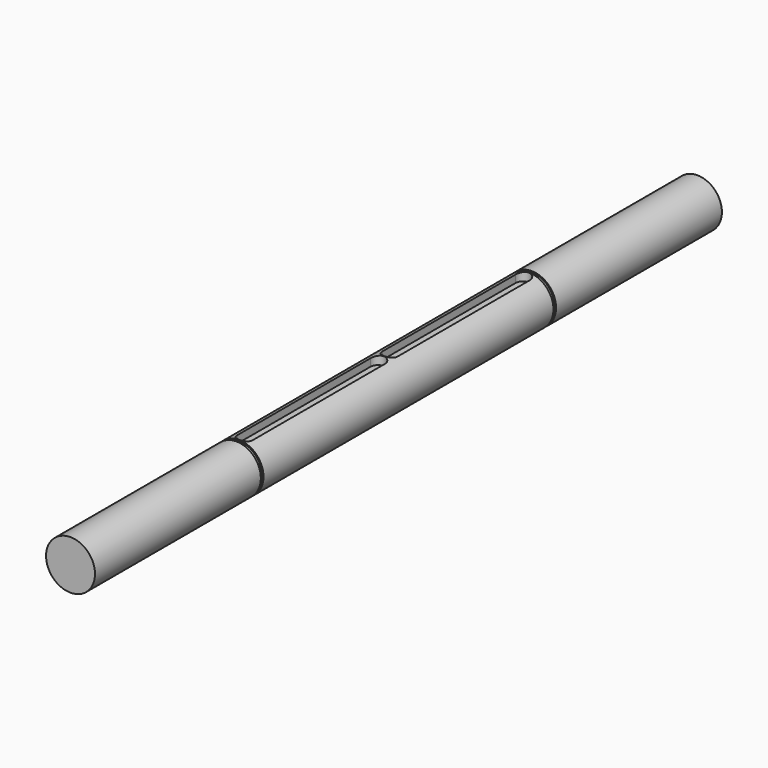
from build123d import *

# Parameters (mm, degrees)
F0_R      = 10
F1_DEPTH  = 320
F4_DEPTH  = 6
F6_R      = 10
F6_R_2    = 9.5
F7_DEPTH  = 1.35
F9_R      = 10
F9_R_2    = 9.5
F10_DEPTH = 1.35


with BuildPart() as f1:
    # F0 (on Front) → F1 (new body)
    with BuildSketch(Plane.XZ):
        Circle(F0_R)
    extrude(amount=F1_DEPTH)

    # F3 (on offset) → F4 (cut)
    with BuildSketch(Plane.XY.offset(12.5)):
        with BuildLine():
            Line((-3, -163.1), (-3, -230.9))
            Line((-3, -230.9), (3, -230.9))
            Line((3, -230.9), (3, -163.1))
            ThreePointArc((3, -163.1), (0, -166.1), (-3, -163.1))
        make_face()
        with BuildLine():
            ThreePointArc((3, -89.1), (0, -86.1), (-3, -89.1))
            Line((-3, -89.1), (3, -89.1))
        make_face()
        with BuildLine():
            Line((3, -230.9), (-3, -230.9))
            ThreePointArc((-3, -230.9), (0, -233.9), (3, -230.9))
        make_face()
        with BuildLine():
            Line((-3, -89.1), (-3, -156.9))
            ThreePointArc((-3, -156.9), (0, -153.9), (3, -156.9))
            Line((3, -156.9), (3, -89.1))
            Line((3, -89.1), (-3, -89.1))
        make_face()
        with BuildLine():
            ThreePointArc((3, -156.9), (0, -153.9), (-3, -156.9))
            ThreePointArc((-3, -156.9), (0, -159.9), (3, -156.9))
        make_face()
        with BuildLine():
            ThreePointArc((3, -163.1), (0, -160.1), (-3, -163.1))
            ThreePointArc((-3, -163.1), (0, -166.1), (3, -163.1))
        make_face()
    extrude(amount=-F4_DEPTH, mode=Mode.SUBTRACT)

    # F6 (on offset) → F7 (cut)
    with BuildSketch(Plane.XZ.offset(86)):
        Circle(F6_R)
        Circle(F6_R_2, mode=Mode.SUBTRACT)
    extrude(amount=-F7_DEPTH, mode=Mode.SUBTRACT)

    # F9 (on offset) → F10 (cut)
    with BuildSketch(Plane.XZ.offset(234)):
        Circle(F9_R)
        Circle(F9_R_2, mode=Mode.SUBTRACT)
    extrude(amount=F10_DEPTH, mode=Mode.SUBTRACT)


solid = f1.part
